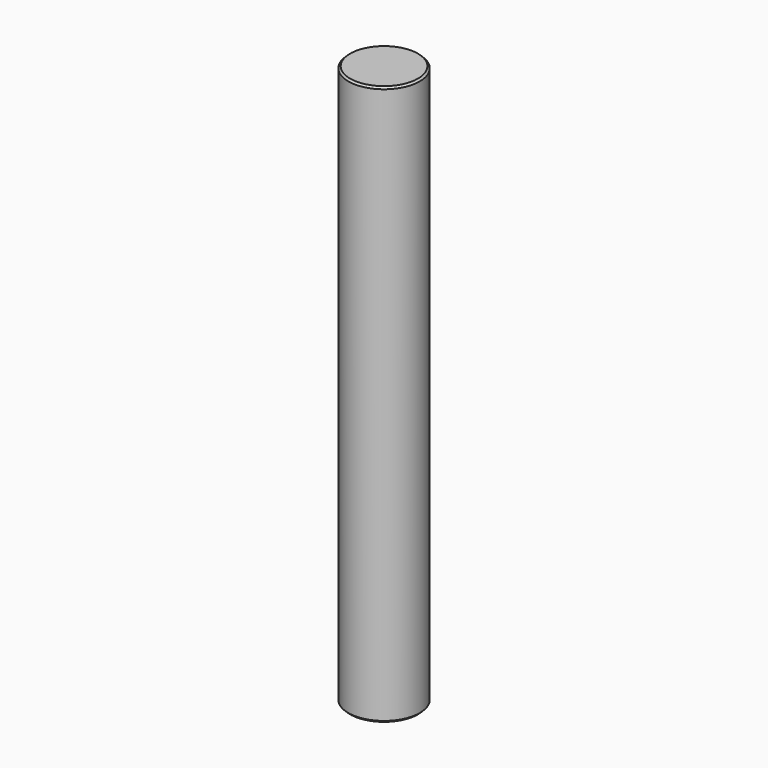
from build123d import *

# Parameters (mm, degrees)
F0_R      = 99.06
F1_DEPTH  = 309.88
F1_FACE_R = 99.06
F2_DEPTH  = 1242.06
F3_SIZE   = 5.08
F4_SIZE   = 5.08


with BuildPart() as f1:
    # F0 (on Top) → F1 (new body)
    with BuildSketch(Plane.XY):
        Circle(F0_R)
    extrude(amount=F1_DEPTH)

    # F1_face (on face) → F2 (join)
    with BuildSketch(Plane(origin=(0, 0, 0), x_dir=(1, 0, 0), z_dir=(0, 0, -1))):
        Circle(F1_FACE_R)
    extrude(amount=F2_DEPTH)

    # F3
    f3_edges = [f1.edges().sort_by_distance(p)[0] for p in [
        (-99.06, 0, -1242.06),
    ]]
    chamfer(f3_edges, length=F3_SIZE)

    # F4
    f4_edges = [f1.edges().sort_by_distance(p)[0] for p in [
        (-99.06, 0, 309.88),
    ]]
    chamfer(f4_edges, length=F4_SIZE)


solid = f1.part
